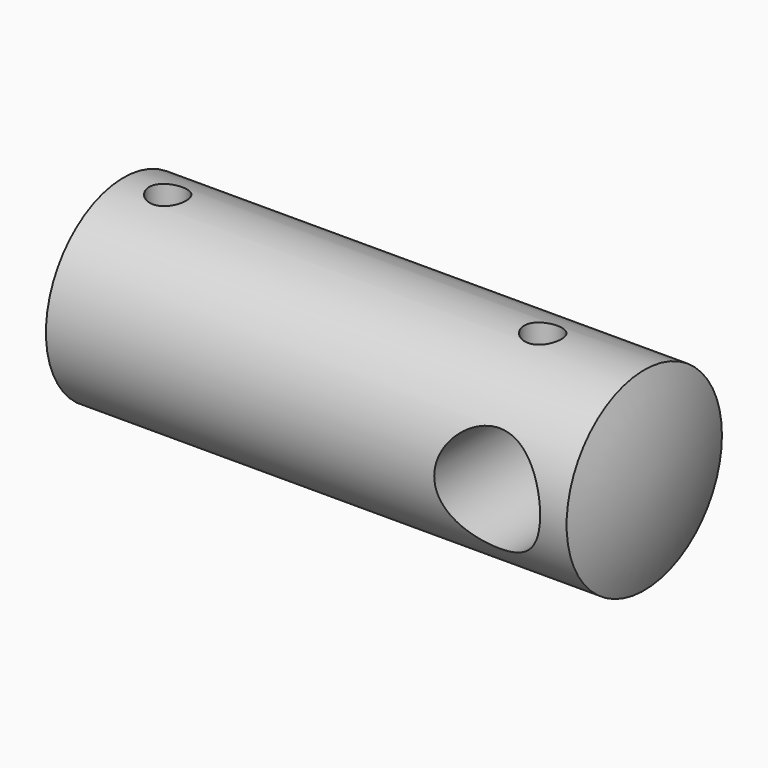
from build123d import *

# Parameters (mm, degrees)
F3_D     = 12
F3_DEPTH = 15
F3_TIP   = 3.6051637142
F6_D     = 12
F9_D     = 4.2
F9_DEPTH = 12
F9_START = 4.2023152
F9_TIP   = 1.2618073


with BuildPart() as f1:
    # F0 (on Top) → F1 (revolve)
    with BuildSketch(Plane.XY):
        with BuildLine():
            Line((0, 11), (0, 0))
            Line((0, 0), (61, 0))
            ThreePointArc((61, 0), (60.4959346906, 5.5901699437), (59, 11))
            Line((59, 11), (0, 11))
        make_face()
    revolve(axis=Axis((30.5, 0, 0), (1, 0, 0)))

    # F3
    with Locations(Plane(origin=(0, 0, 0), x_dir=(0, -1, 0), z_dir=(-1, 0, 0))):
        with Locations((0, 0)):
            Hole(F3_D / 2, depth=F3_DEPTH)
            with Locations((0, 0, -(F3_DEPTH + F3_TIP / 2))):  # 118° drill point
                Cone(0, F3_D / 2, F3_TIP, mode=Mode.SUBTRACT)

    # F6 (through all)
    with Locations(Plane(origin=(0, 15, 0), x_dir=(1, 0, 0), z_dir=(0, 1, 0))):
        with Locations((50, 0)):
            Hole(F6_D / 2)

    # F9
    # its depths count from where the whole tool has entered the part; down to there all is cleared
    with Locations(Plane.XY.offset(15).offset(-F9_START)):
        with Locations((5, 0), (47.5, 0)):
            Hole(F9_D / 2, depth=F9_DEPTH)
            with Locations((0, 0, -(F9_DEPTH + F9_TIP / 2))):  # 118° drill point
                Cone(0, F9_D / 2, F9_TIP, mode=Mode.SUBTRACT)


solid = f1.part
